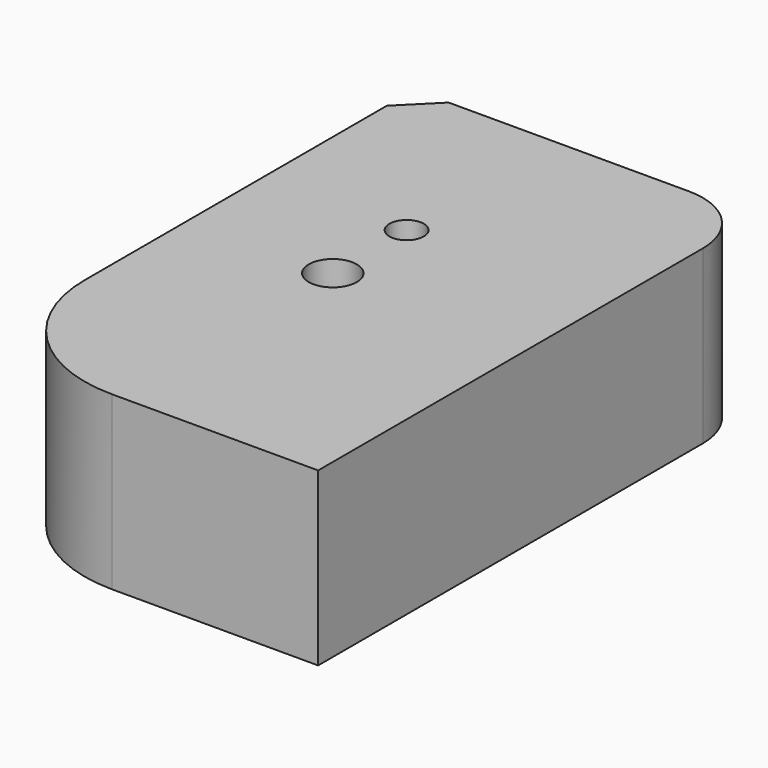
from build123d import *

# Parameters (mm, degrees)
F0_W     = 50
F0_H     = 80
F1_DEPTH = 25
F2_R     = 10
F3_SIZE  = 5
F4_R     = 20
F5_R     = 2.5
F5_R_2   = 3.5
F6_DEPTH = 30


with BuildPart() as f1:
    # F0 (on Top) → F1 (new body)
    with BuildSketch(Plane.XY):
        with Locations((25, -40)):
            Rectangle(F0_W, F0_H)
    extrude(amount=F1_DEPTH)

    # F2
    f2_edges = [f1.edges().sort_by_distance(p)[0] for p in [
        (50, 0, 12.5),
    ]]
    fillet(f2_edges, radius=F2_R)

    # F3
    f3_edges = [f1.edges().sort_by_distance(p)[0] for p in [
        (0, 0, 12.5),
    ]]
    chamfer(f3_edges, length=F3_SIZE)

    # F4
    f4_edges = [f1.edges().sort_by_distance(p)[0] for p in [
        (0, -80, 12.5),
    ]]
    fillet(f4_edges, radius=F4_R)

    # F5 (on face) → F6 (cut)
    with BuildSketch(Plane(origin=(0, 0, 0), x_dir=(1, 0, 0), z_dir=(0, 0, -1))):
        with Locations((20.888399, 27.508826)):
            Circle(F5_R)
        with Locations((20.965385, 41.043077)):
            Circle(F5_R_2)
    extrude(amount=-F6_DEPTH, mode=Mode.SUBTRACT)


solid = f1.part
